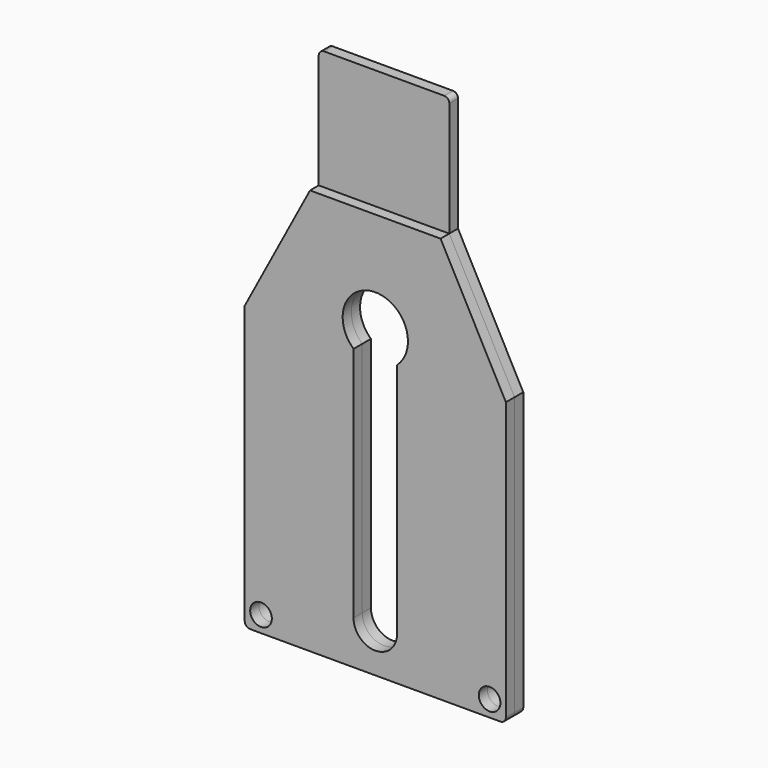
from build123d import *

# Parameters (mm, degrees)
F0_R     = 6.3246
F1_DEPTH = 6.35
F2_R     = 6.3246
F3_DEPTH = 6.35


with BuildPart() as f1:
    # F0 (on Front) → F1 (new body)
    with BuildSketch(Plane.XZ):
        with BuildLine():
            ThreePointArc((0, 3.175), (0.929936, 0.929936), (3.175, 0))
            Line((3.175, 0), (149.225, 0))
            ThreePointArc((149.225, 0), (151.470064, 0.929936), (152.4, 3.175))
            Line((152.4, 3.175), (152.4, 165.1))
            Line((152.4, 165.1), (114.3, 236.755678))
            Line((114.3, 236.755678), (114.3, 303.684678))
            ThreePointArc((114.3, 303.684678), (113.444459, 305.750137), (111.379, 306.605678))
            Line((111.379, 306.605678), (41.275, 306.605678))
            ThreePointArc((41.275, 306.605678), (39.029936, 305.675742), (38.1, 303.430678))
            Line((38.1, 303.430678), (38.1, 236.755678))
            Line((38.1, 236.755678), (0, 165.1))
            Line((0, 165.1), (0, 3.175))
        make_face()
        with Locations((9.4996, 9.4996)):
            Circle(F0_R, mode=Mode.SUBTRACT)
        with Locations((142.9004, 9.4996)):
            Circle(F0_R, mode=Mode.SUBTRACT)
        with BuildLine():
            ThreePointArc((63.5, 163.600968), (76.2, 196.85), (88.9, 163.600968))
            Line((88.9, 163.600968), (88.9, 25.4))
            ThreePointArc((88.9, 25.4), (76.2, 12.7), (63.5, 25.4))
            Line((63.5, 25.4), (63.5, 163.600968))
        make_face(mode=Mode.SUBTRACT)
    extrude(amount=F1_DEPTH)


with BuildPart() as f3:
    # F2 (on face) → F3 (new body)
    with BuildSketch(Plane.XZ.offset(6.35)):
        with BuildLine():
            Line((3.175, 0), (149.225, 0))
            ThreePointArc((149.225, 0), (151.470064, 0.929936), (152.4, 3.175))
            Line((152.4, 3.175), (152.4, 165.1))
            Line((152.4, 165.1), (114.3, 236.755678))
            Line((114.3, 236.755678), (38.1, 236.755678))
            Line((38.1, 236.755678), (0, 165.1))
            Line((0, 165.1), (0, 3.175))
            ThreePointArc((0, 3.175), (0.929936, 0.929936), (3.175, 0))
        make_face()
        with Locations((9.4996, 9.4996)):
            Circle(F2_R, mode=Mode.SUBTRACT)
        with BuildLine():
            Line((63.5, 25.4), (63.5, 163.600968))
            ThreePointArc((63.5, 163.600968), (76.2, 196.85), (88.9, 163.600968))
            Line((88.9, 163.600968), (88.9, 25.4))
            ThreePointArc((88.9, 25.4), (76.2, 12.7), (63.5, 25.4))
        make_face(mode=Mode.SUBTRACT)
        with Locations((142.9004, 9.4996)):
            Circle(F2_R, mode=Mode.SUBTRACT)
    extrude(amount=F3_DEPTH)


solid = Compound([f1.part, f3.part])
